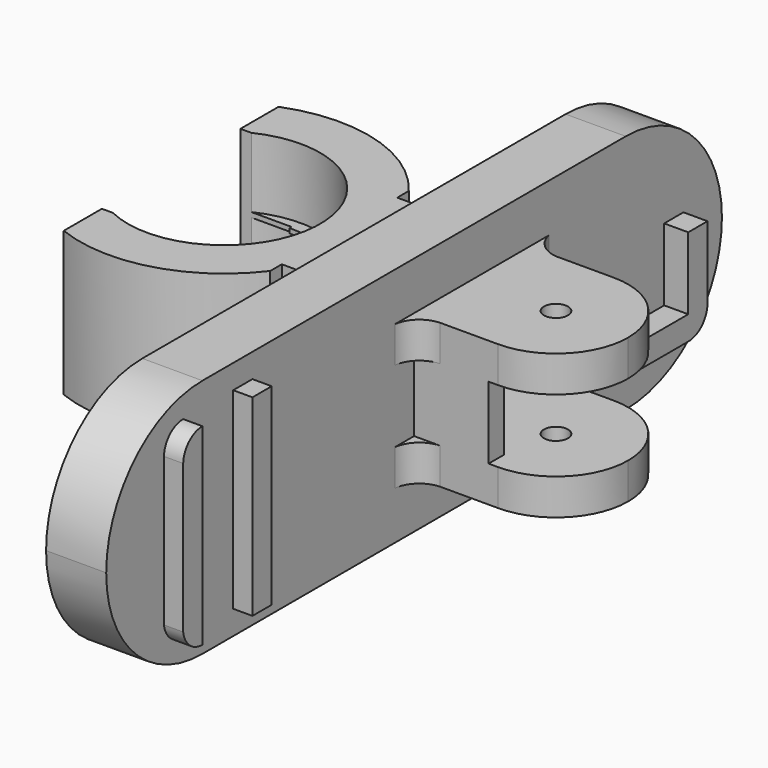
from build123d import *

# Parameters (mm, degrees)
F1_DEPTH  = 2.5
F2_W      = 8
F2_H      = 1.5
F3_DEPTH  = 6.5
F4_R      = 0.5
F5_DEPTH  = 25
F6_W      = 0.8
F6_H      = 3
F7_DEPTH  = 3.1
F8_W      = 1
F8_H      = 3
F9_DEPTH  = 1
F11_DEPTH = 0.8
F13_DEPTH = 3
F15_DEPTH = 7
F16_R     = 4
F17_DEPTH = 2.9
F18_R     = 4
F19_DEPTH = 2.9
F20_R     = 3.5
F21_DEPTH = 25
F23_DEPTH = 25


with BuildPart() as f1:
    # F0 (on Right) → F1 (new body)
    with BuildSketch(Plane.YZ):
        with BuildLine():
            Line((11, 5), (-11, 5))
            ThreePointArc((-11, 5), (-14.535534, 3.535534), (-16, 0))
            ThreePointArc((-16, 0), (-14.535534, -3.535534), (-11, -5))
            Line((-11, -5), (11, -5))
            ThreePointArc((11, -5), (14.535534, -3.535534), (16, 0))
            ThreePointArc((16, 0), (14.535534, 3.535534), (11, 5))
        make_face()
    extrude(amount=F1_DEPTH)

    # F2 (on face) → F3 (join)
    with BuildSketch(Plane.YZ.offset(2.5)):
        with Locations((3, 2.25)):
            Rectangle(F2_W, F2_H)
        with Locations((3, -2.25)):
            Rectangle(F2_W, F2_H)
    extrude(amount=F3_DEPTH)

    # F4 (on face) → F5 (cut)
    with BuildSketch(Plane(origin=(0, 0, -3), x_dir=(1, 0, 0), z_dir=(0, 0, -1))):
        with BuildLine():
            Line((9, -6), (9, -3))
            ThreePointArc((9, -3), (8.12132, -5.12132), (6, -6))
            Line((6, -6), (3.575691, -6))
            ThreePointArc((3.575691, -6), (2.879031, -6.329165), (2.5, -7))
            Line((2.5, -7), (9, -7))
            Line((9, -7), (9, -6))
        make_face()
        with BuildLine():
            Line((9, 1), (2.5, 1))
            ThreePointArc((2.5, 1), (2.854094, 0.30234), (3.575691, 0))
            Line((3.575691, 0), (6, 0))
            ThreePointArc((6, 0), (8.12132, -0.87868), (9, -3))
            Line((9, -3), (9, 0))
            Line((9, 0), (9, 1))
        make_face()
        with Locations((6, -3)):
            Circle(F4_R)
    extrude(amount=-F5_DEPTH, mode=Mode.SUBTRACT)

    # F6 (on face) → F7 (join)
    with BuildSketch(Plane.YZ.offset(2.5)):
        with Locations((0.4, 0)):
            Rectangle(F6_W, F6_H)
        Polygon((5.2, 1.5), (5.2, 1.4), (5.2, -0.5), (6, -0.5), (6, 1.5), align=None)
    extrude(amount=F7_DEPTH)

    # F8 (on face) → F9 (join)
    with BuildSketch(Plane.YZ.offset(2.5)):
        with BuildLine():
            Line((13, -1.999869), (13, -2))
            Line((13, -2), (11, -2))
            Line((11, -2), (10, -2))
            Line((10, -2), (10, -3))
            Line((10, -3), (13, -3))
            ThreePointArc((13, -3), (13.701444, -2.712777), (14, -2.016082))
            Line((14, -2.016082), (14, 1))
            Line((14, 1), (13, 1))
            Line((13, 1), (13, 0))
            Line((13, 0), (13, -1.999869))
        make_face()
        with Locations((2.868138, 0)):
            Rectangle(F8_W, F8_H)
    extrude(amount=F9_DEPTH)

    # F10 (on face) → F11 (join)
    with BuildSketch(Plane.YZ.offset(2.5)):
        Polygon((-9.4, -4), (-8.9, -4), (-8.4, -4), (-8.4, 4), (-8.9, 4), (-9.4, 4), align=None)
        with BuildLine():
            Line((-12, -4), (-12, 0))
            Line((-12, 0), (-12, 4))
            ThreePointArc((-12, 4), (-12.692073, 3.722199), (-13, 3.042993))
            Line((-13, 3.042993), (-13, -3.125271))
            ThreePointArc((-13, -3.125271), (-12.664295, -3.750459), (-12, -4))
        make_face()
    extrude(amount=F11_DEPTH)

    # F12 (on face) → F13 (join)
    with BuildSketch(Plane(origin=(0, 0, 0), x_dir=(0, -1, 0), z_dir=(-1, 0, 0))):
        Polygon((-6, 3), (-6, 0), (-6, -3), (0, -3), (0, 3), align=None)
    extrude(amount=F13_DEPTH)

    # F14 (on face) → F15 (join)
    with BuildSketch(Plane(origin=(-3, 0, 0), x_dir=(0, -1, 0), z_dir=(-1, 0, 0))):
        Polygon((-9, -3), (-6, -3), (3, -3), (3, 3), (0, 3), (-9, 3), align=None)
    extrude(amount=F15_DEPTH)

    # F16 (on face) → F17 (cut)
    with BuildSketch(Plane(origin=(0, 0, -3), x_dir=(1, 0, 0), z_dir=(0, 0, -1))):
        with Locations((-7.8, -3)):
            Circle(F16_R)
    extrude(amount=-F17_DEPTH, mode=Mode.SUBTRACT)

    # F18 (on face) → F19 (cut)
    with BuildSketch(Plane.XY.offset(3)):
        with Locations((-7.8, 3)):
            Circle(F18_R)
    extrude(amount=-F19_DEPTH, mode=Mode.SUBTRACT)

    # F20 (on face) → F21 (cut)
    with BuildSketch(Plane.XY.offset(0.1)):
        with Locations((-7.8, 3)):
            Circle(F20_R)
    extrude(amount=-F21_DEPTH, mode=Mode.SUBTRACT)

    # F22 (on face) → F23 (cut)
    with BuildSketch(Plane.XY.offset(3)):
        with BuildLine():
            ThreePointArc((-12.6, 6.6), (-7.8, 9), (-3, 6.6))
            Line((-3, 6.6), (-3, 10.6))
            Line((-3, 10.6), (-18.027099, 10.6))
            Line((-18.027099, 10.6), (-18.027099, -4.6))
            Line((-18.027099, -4.6), (-3, -4.6))
            Line((-3, -4.6), (-3, -0.6))
            ThreePointArc((-3, -0.6), (-7.8, -3), (-12.6, -0.6))
            Line((-12.6, -0.6), (-7.874562, -0.6))
            Line((-7.874562, -0.6), (-7.874562, 6.6))
            Line((-7.874562, 6.6), (-12.6, 6.6))
        make_face()
    extrude(amount=-F23_DEPTH, mode=Mode.SUBTRACT)


solid = f1.part
